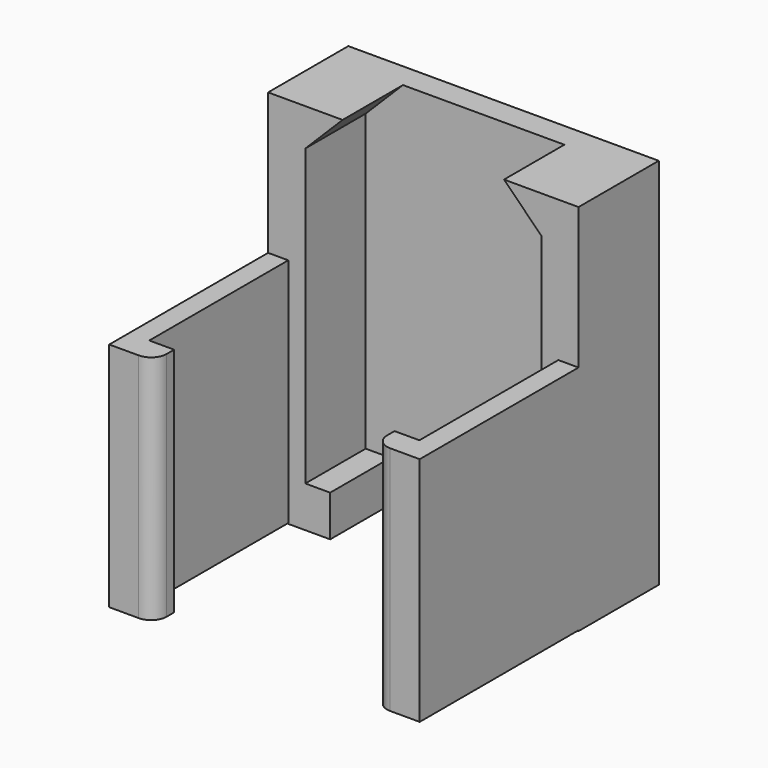
from build123d import *

# Parameters (mm, degrees)
SKETCH021_W             = 20
SKETCH021_H             = 24.05
PAD010_DEPTH            = 6.46
POCKET008_DEPTH         = 4.86
SKETCH022_W             = 1.3
SKETCH022_H             = 14.9
PAD011_DEPTH            = 17.65
SKETCH023_W             = 2.9
SKETCH023_H             = 14.9
PAD012_DEPTH            = 1.6
FILLET017_R             = 1
BODY003_PLACEMENT_ANGLE = 90


with BuildPart() as part:
    # Sketch021 → Pad010 (new body)
    with BuildSketch(Plane.XY):
        with Locations((0, 12.025)):
            Rectangle(SKETCH021_W, SKETCH021_H)
    extrude(amount=PAD010_DEPTH)

    # Sketch020 (on Face6 of Pad010) → Pocket008 (cut)
    with BuildSketch(Plane.XY.offset(6.46)):
        Polygon((7.6, 2.65), (7.6, 21.65), (5.2, 24.05), (-5.2, 24.05), (-7.6, 21.65), (-7.6, 2.65), (-6, 2.65), (-6, 0), (6, 0), (6, 2.65), align=None)
    extrude(amount=-POCKET008_DEPTH, mode=Mode.SUBTRACT)

    # Sketch022 → Pad011 (join)
    with BuildSketch(Plane.XY):
        with Locations((-9.35, 7.5)):
            Rectangle(SKETCH022_W, SKETCH022_H)
    pad011 = extrude(amount=PAD011_DEPTH)

    # Sketch023 (on Face23 of Pad011) → Pad012 (join)
    with BuildSketch(Plane.XY.offset(17.65)):
        with Locations((-8.55, 7.5)):
            Rectangle(SKETCH023_W, SKETCH023_H)
    pad012 = extrude(amount=PAD012_DEPTH)

    # Mirrored004: Pad011, Pad012 across Sketch022 V_Axis
    add(pad011.mirror(Plane(origin=(0, 0, 0), x_dir=(0, 0, 1), z_dir=(1, 0, 0))))
    add(pad012.mirror(Plane(origin=(0, 0, 0), x_dir=(0, 0, 1), z_dir=(1, 0, 0))))

    # Fillet017
    fillet017_edges = [part.edges().sort_by_distance(p)[0] for p in [
        (7.1, 7.5, 19.25),
        (-7.1, 7.5, 19.25),
    ]]
    fillet(fillet017_edges, radius=FILLET017_R)


with BuildPart() as part_1:
    # Body003 placement: moved
    add(part.part.moved(Location((-39, 17.65, 5.75))).rotate(Axis((-39, 17.65, 5.75), (1, 0, 0)), BODY003_PLACEMENT_ANGLE))


solid = part_1.part
